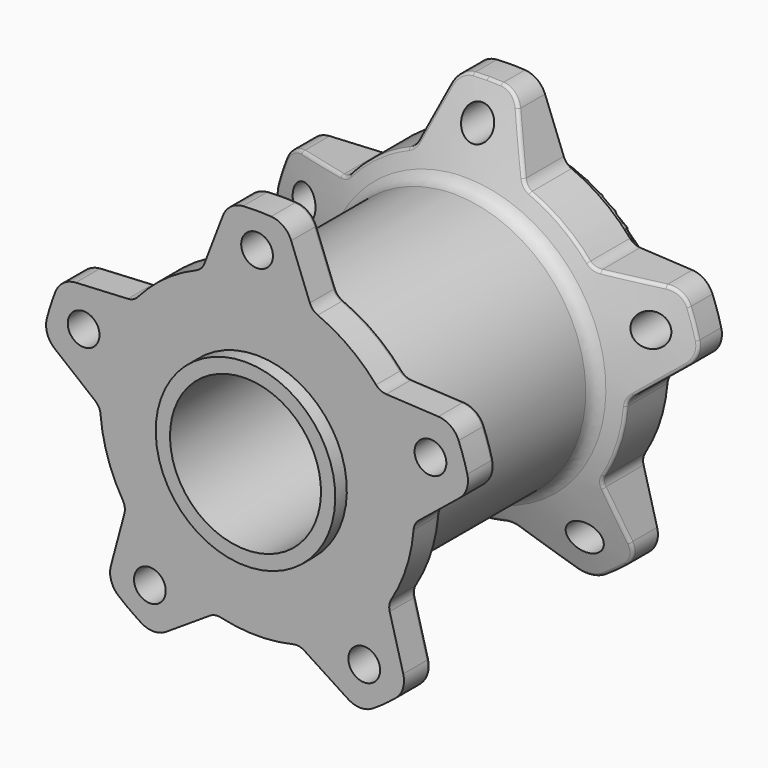
from build123d import *

# Parameters (mm, degrees)
F2_R     = 3.4925
F3_DEPTH = 73.026
F5_DEPTH = 73.026
F6_R     = 5.08
F7_R     = 3.175
F8_R     = 0.762


with BuildPart() as f1:
    # F0 (on Right) → F1 (revolve)
    with BuildSketch(Plane.YZ):
        Polygon((7.2840848006, 0), (0, 0), (0, -27.9908), (-3.175, -27.9908), (-3.175, -31.1349068699), (60.2256543934, -31.1349068699), (60.2256543934, -25.4255195079), (74.2746591568, -25.4255195079), (74.2746591568, -16.4902415127), (69.85, -16.4902415127), (69.85, 0), (63.5128766298, 0), (56.4193986356, -18.7856946141), (7.2840848006, -18.7856946141), align=None)
    revolve(axis=Axis((0, 36.659217304, -47.752), (0, 1, 0)))

    # F2 (on face) → F3 (cut, through all)
    with BuildSketch(Plane(origin=(0, 69.85, 0), x_dir=(-1, 0, 0), z_dir=(0, 1, 0))):
        with Locations((0, -7.62)):
            Circle(F2_R)
        with Locations((-38.167800112, -35.3505299817)):
            Circle(F2_R)
        with Locations((-23.588997745, -80.2194700183)):
            Circle(F2_R)
        with Locations((23.588997745, -80.2194700183)):
            Circle(F2_R)
        with Locations((38.167800112, -35.3505299817)):
            Circle(F2_R)
    extrude(amount=-F3_DEPTH, mode=Mode.SUBTRACT)

    # F4 (on face) → F5 (cut, through all)
    with BuildSketch(Plane(origin=(0, 69.85, 0), x_dir=(-1, 0, 0), z_dir=(0, 1, 0))):
        with BuildLine():
            Line((-11.6200759973, -14.0729628724), (-6.224504672, 0))
            ThreePointArc((-6.224504672, 0), (-28.3053721236, -8.7929975569), (-43.4913730409, -27.0759647556))
            Line((-43.4913730409, -27.0759647556), (-28.4398667636, -26.2932561763))
            ThreePointArc((-28.4398667636, -26.2932561763), (-27.2067622708, -25.9731989964), (-26.198734229, -25.1941850327))
            ThreePointArc((-26.198734229, -25.1941850327), (-20.3209585592, -19.7826000325), (-13.3579028102, -15.8647749119))
            ThreePointArc((-13.3579028102, -15.8647749119), (-12.3055187079, -15.1468118279), (-11.6200759973, -14.0729628724))
        make_face()
        with BuildLine():
            ThreePointArc((43.4913730409, -27.0759647556), (28.3053721236, -8.7929975569), (6.224504672, 0))
            Line((6.224504672, 0), (11.6200759973, -14.0729628724))
            ThreePointArc((11.6200759973, -14.0729628724), (12.3055187079, -15.1468118279), (13.3579028102, -15.8647749119))
            ThreePointArc((13.3579028102, -15.8647749119), (20.3209585592, -19.7826000325), (26.198734229, -25.1941850327))
            ThreePointArc((26.198734229, -25.1941850327), (27.2067622708, -25.9731989964), (28.4398667636, -26.2932561763))
            Line((28.4398667636, -26.2932561763), (43.4913730409, -27.0759647556))
        make_face()
        with BuildLine():
            Line((-35.6214686818, -48.3959541705), (-47.3383284913, -38.9156762136))
            ThreePointArc((-47.3383284913, -38.9156762136), (-45.7990541601, -62.6330147655), (-33.1036514287, -82.7255074664))
            Line((-33.1036514287, -82.7255074664), (-29.1968802928, -68.1688040887))
            ThreePointArc((-29.1968802928, -68.1688040887), (-29.1202225151, -66.8971489177), (-29.5496110259, -65.6977287263))
            ThreePointArc((-29.5496110259, -65.6977287263), (-32.8800016327, -58.4353601426), (-34.4543721841, -50.602426056))
            ThreePointArc((-34.4543721841, -50.602426056), (-34.8119910815, -49.3796865036), (-35.6214686818, -48.3959541705))
        make_face()
        with BuildLine():
            Line((-10.3952023772, -81.8290226921), (-23.0321913063, -90.0428515644))
            ThreePointArc((-23.0321913063, -90.0428515644), (0, -95.9079753552), (23.0321913063, -90.0428515644))
            Line((23.0321913063, -90.0428515644), (10.3952023772, -81.8290226921))
            ThreePointArc((10.3952023772, -81.8290226921), (9.2094749965, -81.3631537544), (7.9360702607, -81.4008852731))
            ThreePointArc((7.9360702607, -81.4008852731), (0, -82.3240796497), (-7.9360702607, -81.4008852731))
            ThreePointArc((-7.9360702607, -81.4008852731), (-9.2094749965, -81.3631537544), (-10.3952023772, -81.8290226921))
        make_face()
        with BuildLine():
            Line((29.1968802928, -68.1688040887), (33.1036514287, -82.7255074664))
            ThreePointArc((33.1036514287, -82.7255074664), (45.7990541601, -62.6330147655), (47.3383284913, -38.9156762136))
            Line((47.3383284913, -38.9156762136), (35.6214686818, -48.3959541705))
            ThreePointArc((35.6214686818, -48.3959541705), (34.8119910815, -49.3796865036), (34.4543721841, -50.602426056))
            ThreePointArc((34.4543721841, -50.602426056), (32.8800016327, -58.4353601426), (29.5496110259, -65.6977287263))
            ThreePointArc((29.5496110259, -65.6977287263), (29.1202225151, -66.8971489177), (29.1968802928, -68.1688040887))
        make_face()
    extrude(amount=-F5_DEPTH, mode=Mode.SUBTRACT)

    # F6
    f6_edges = [f1.edges().sort_by_distance(p)[0] for p in [
        (6.38912, 66.681438, -0.429356),
        (-6.38912, 66.681438, -0.429356),
        (-43.032163, 66.681438, -27.052085),
        (-46.980856, 66.681438, -39.204913),
        (-32.984459, 66.681438, -82.281393),
        (-22.646646, 66.681438, -89.792254),
        (22.646646, 66.681438, -89.792254),
        (32.984459, 66.681438, -82.281393),
        (46.980856, 66.681438, -39.204913),
        (43.032163, 66.681438, -27.052085),
        (32.984459, 3.642042, -82.281393),
        (22.646646, 3.642042, -89.792254),
        (46.980856, 3.642042, -39.204913),
        (43.032163, 3.642042, -27.052085),
        (6.38912, 3.642042, -0.429356),
        (-6.38912, 3.642042, -0.429356),
        (-46.980856, 3.642042, -39.204913),
        (-43.032163, 3.642042, -27.052085),
        (-32.984459, 3.642042, -82.281393),
        (-22.646646, 3.642042, -89.792254),
    ]]
    fillet(f6_edges, radius=F6_R)

    # F7
    f7_edges = [f1.edges().sort_by_distance(p)[0] for p in [
        (0, 7.284085, -76.718305),
        (0, 56.419399, -76.718305),
    ]]
    fillet(f7_edges, radius=F7_R)

    # F8
    f8_edges = [f1.edges().sort_by_distance(p)[0] for p in [
        (9.564706, 7.284085, -8.712057),
        (9.559572, 60.663628, -8.698668),
        (0, 74.274659, -79.013758),
        (0, 74.274659, -70.07848),
        (0, 60.225654, -64.369093),
    ]]
    fillet(f8_edges, radius=F8_R)


solid = f1.part
